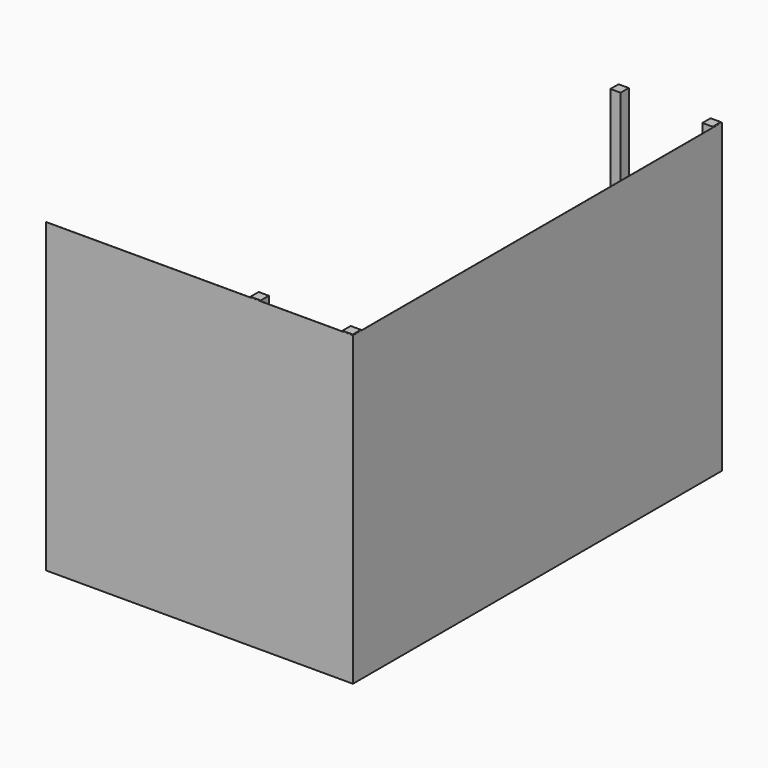
from build123d import *

# Parameters (mm, degrees)
F1_W     = 100
F1_H     = 100
F1_W_2   = 1
F1_H_2   = 4510
F1_W_3   = 3000
F1_H_3   = 1
F3_DEPTH = 3000
F2_W     = 1000
F2_H     = 4300
F4_DEPTH = 100


with BuildPart() as f3:
    # F1 (on Top) → F3 (new body)
    with BuildSketch(Plane.XY):
        with Locations((-450, 2200)):
            Rectangle(F1_W, F1_H)
        with Locations((450, 2200)):
            Rectangle(F1_W, F1_H)
        with Locations((-450, -2200)):
            Rectangle(F1_W, F1_H)
        with Locations((450, -2200)):
            Rectangle(F1_W, F1_H)
        with Locations((510.5, -5)):
            Rectangle(F1_W_2, F1_H_2)
        with Locations((-990, -2260.5)):
            Rectangle(F1_W_3, F1_H_3)
    extrude(amount=F3_DEPTH)


with BuildPart() as f4:
    # F2 (on offset) → F4 (new body)
    with BuildSketch(Plane.XY.offset(1500)):
        Rectangle(F2_W, F2_H)
    extrude(amount=F4_DEPTH)


solid = Compound([f3.part, f4.part])
